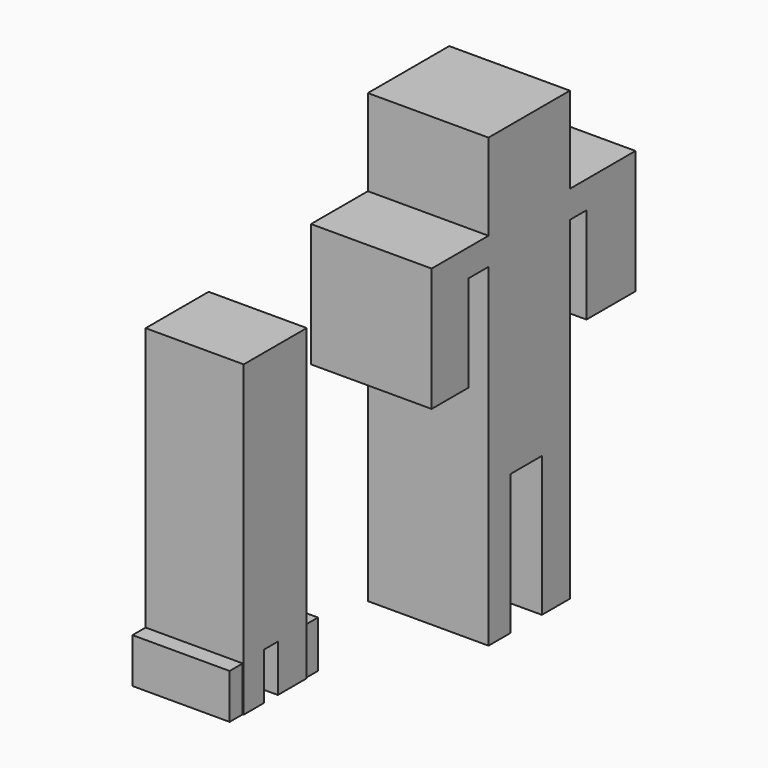
from build123d import *

# Parameters (mm, degrees)
F0_W      = 26.339576114
F0_H      = 22.3744772375
F0_W_2    = 5.3812060505
F0_H_2    = 7.0805288851
F0_W_3    = 6.5140875522
F0_W_4    = 9.0630780905
F0_H_3    = 36.2523160875
F0_W_5    = 7.0805349387
F1_DEPTH  = 31.242
F3_DEPTH  = 1.778
F2_R      = 1.9825492054
F2_R_2    = 2.3355022463
F4_DEPTH  = 1.016
F5_W      = 20.3919298947
F5_H      = 20.9583751857
F5_W_2    = 6.5140910447
F5_H_2    = 9.9127404392
F5_W_3    = 9.3463025987
F5_H_3    = 12.1785104275
F5_H_4    = 2.2657699883
F6_DEPTH  = 25.4
F7_W      = 4.2483210564
F7_H      = 11.6120707244
F7_W_2    = 9.3463025987
F7_H_2    = 12.1785104275
F7_W_3    = 3.9651021361
F8_DEPTH  = 25.146
F9_W      = 3.6818757653
F9_H      = 3.6818794906
F9_W_2    = 3.1154304743
F9_H_2    = 3.3986568451
F9_H_3    = 3.1154323369
F9_W_3    = 5.0979815423
F9_W_4    = 1.9825510681
F10_DEPTH = 1.778


with BuildPart() as f1:
    # F0 (on Right) → F1 (new body)
    with BuildSketch(Plane.YZ):
        with Locations((17.1348841395, 56.0778025538)):
            Rectangle(F0_W, F0_H)
        Polygon((30.3046721965, 37.8100350499), (30.3046721965, 44.890563935), (3.9650960825, 44.890563935), (3.9650960825, 37.8100350499), (3.9650960825, -12.3201236129), (11.0456310213, -12.3201236129), (21.241594106, -12.3201236129), (30.3046721965, -12.3201236129), align=None)
        with Locations((32.9952752218, 41.3502994925)):
            Rectangle(F0_W_2, F0_H_2)
        with Locations((0.7080523064, 41.3502994925)):
            Rectangle(F0_W_3, F0_H_2)
        Polygon((51.5462644398, 44.890563935), (35.685878247, 44.890563935), (35.685878247, 37.8100350499), (35.685878247, 12.88656611), (51.5462644398, 12.88656611), align=None)
        Polygon((-2.5489914697, 37.8100350499), (-2.5489914697, 44.890563935), (-14.4442832097, 44.890563935), (-14.4442832097, 12.88656611), (-2.5489914697, 12.88656611), align=None)
        with Locations((25.7731331512, -30.4462816566)):
            Rectangle(F0_W_4, F0_H_3)
        with Locations((7.5053635519, -30.4462816566)):
            Rectangle(F0_W_5, F0_H_3)
    extrude(amount=F1_DEPTH)

    # F2 (on face) → F3 (join)
    with BuildSketch(Plane(origin=(0, 0, 0), x_dir=(0, -1, 0), z_dir=(-1, 0, 0))):
        Polygon((-8.779858239, 44.890563935), (-9.3462998047, 50.8382096887), (-24.6402472258, 50.8382096887), (-24.6402472258, 44.890563935), align=None)
    extrude(amount=F3_DEPTH)

    # F2 (on face) → F4 (join)
    with BuildSketch(Plane(origin=(0, 0, 0), x_dir=(0, -1, 0), z_dir=(-1, 0, 0))):
        with Locations((-23.2241433114, 59.0516291559)):
            Circle(F2_R)
        with Locations((-12.1785150841, 58.2019649446)):
            Circle(F2_R_2)
        Polygon((-8.779858239, 44.890563935), (-9.3462998047, 50.8382096887), (-24.6402472258, 50.8382096887), (-24.6402472258, 44.890563935), align=None)
    extrude(amount=F4_DEPTH)


with BuildPart() as f6:
    # F5 (on Right) → F6 (new body)
    with BuildSketch(Plane.YZ):
        with Locations((-57.7771347016, 32.4288327247)):
            Rectangle(F5_W, F5_H)
        Polygon((-47.5811697543, 21.9496451318), (-67.973099649, 21.9496451318), (-67.973099649, -24.7818604112), (-61.4590086043, -24.7818604112), (-56.927472353, -24.7818604112), (-47.5811697543, -24.7818604112), align=None)
        with Locations((-64.7160541266, -29.7382306308)):
            Rectangle(F5_W_2, F5_H_2)
        with Locations((-52.2543210536, -30.8711156249)):
            Rectangle(F5_W_3, F5_H_3)
        with Locations((-64.7160541266, -35.8274858445)):
            Rectangle(F5_W_2, F5_H_4)
    extrude(amount=F6_DEPTH)

    # F7 (on face) → F8 (join)
    with BuildSketch(Plane(origin=(0, 0, 0), x_dir=(0, -1, 0), z_dir=(-1, 0, 0))):
        with Locations((70.0972601771, -31.1543354765)):
            Rectangle(F7_W, F7_H)
        with Locations((52.2543210536, -30.8711156249)):
            Rectangle(F7_W_2, F7_H_2)
        with Locations((45.5986186862, -30.8711156249)):
            Rectangle(F7_W_3, F7_H_2)
    extrude(amount=-F8_DEPTH)

    # F9 (on face) → F10 (join)
    with BuildSketch(Plane(origin=(0, 0, 0), x_dir=(0, -1, 0), z_dir=(-1, 0, 0))):
        with Locations((51.9710965455, 34.2697706074)):
            Rectangle(F9_W, F9_H)
        with Locations((62.4502822757, 34.1281592846)):
            Rectangle(F9_W_2, F9_H_2)
        Polygon((64.0079975128, 20.8167601377), (64.0079975128, 24.4986377656), (53.8120344281, 24.4986377656), (53.8120344281, 20.8167601377), (58.9100159705, 20.8167601377), (60.8925670385, 20.8167601377), align=None)
        with Locations((62.4502822757, 19.2590439692)):
            Rectangle(F9_W_2, F9_H_3)
        with Locations((56.3610251993, 19.2590439692)):
            Rectangle(F9_W_3, F9_H_3)
        with Locations((59.9012915045, 19.2590439692)):
            Rectangle(F9_W_4, F9_H_3)
    extrude(amount=F10_DEPTH)


solid = Compound([f1.part, f6.part])
